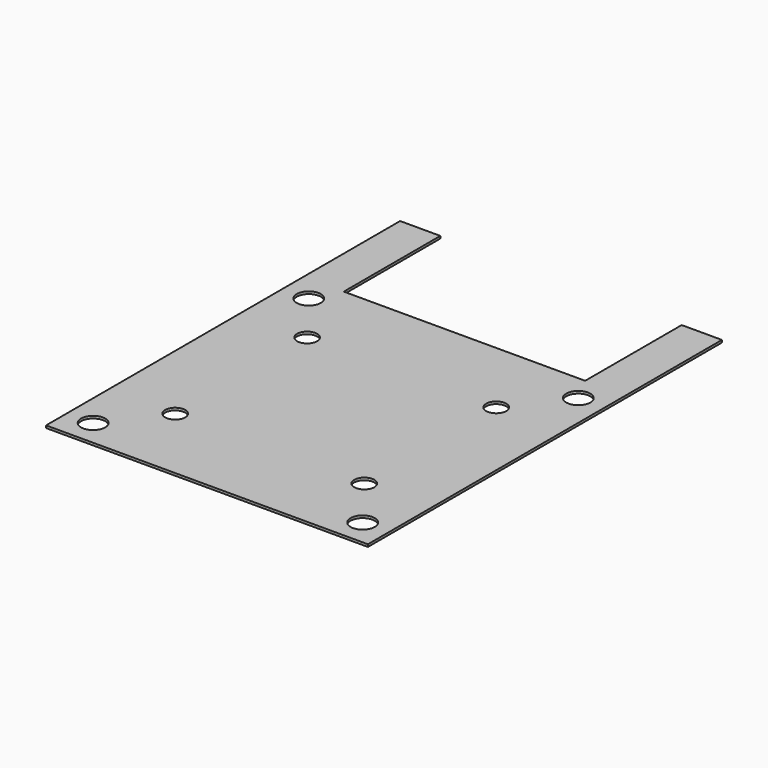
from build123d import *

# Parameters (mm, degrees)
F0_R     = 3
F0_W     = 10
F0_H     = 30
F1_DEPTH = 0.6
F2_R     = 2.5
F3_DEPTH = 0.601


with BuildPart() as f1:
    # F0 (on Top) → F1 (new body)
    with BuildSketch(Plane.XY):
        Polygon((0, 80), (0, 0), (80, 0), (80, 80), (70, 80), (10, 80), align=None)
        with Locations((6.5, 6.5)):
            Circle(F0_R, mode=Mode.SUBTRACT)
        with Locations((73.5, 6.5)):
            Circle(F0_R, mode=Mode.SUBTRACT)
        with Locations((6.5, 73.5)):
            Circle(F0_R, mode=Mode.SUBTRACT)
        with Locations((73.5, 73.5)):
            Circle(F0_R, mode=Mode.SUBTRACT)
        with Locations((5, 95)):
            Rectangle(F0_W, F0_H)
        with Locations((75, 95)):
            Rectangle(F0_W, F0_H)
    extrude(amount=F1_DEPTH)

    # F2 (on face) → F3 (cut, through all)
    with BuildSketch(Plane.XY.offset(0.6)):
        with Locations((16.5, 60.5)):
            Circle(F2_R)
        with Locations((63.5, 60.5)):
            Circle(F2_R)
        with Locations((63.5, 19.5)):
            Circle(F2_R)
        with Locations((16.5, 19.5)):
            Circle(F2_R)
    extrude(amount=-F3_DEPTH, mode=Mode.SUBTRACT)


solid = f1.part
